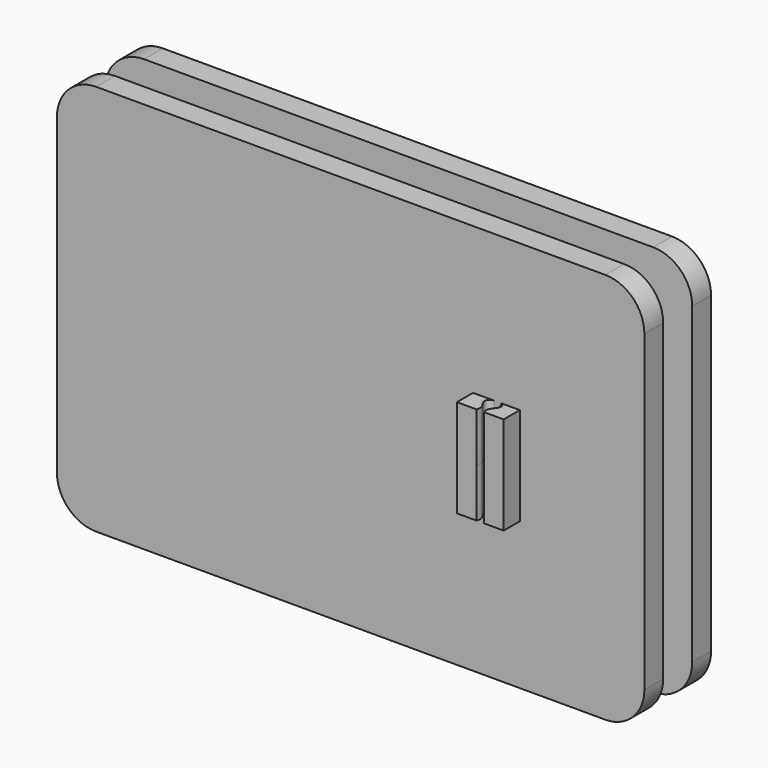
from build123d import *

# Parameters (mm, degrees)
F0_W     = 76.2
F0_H     = 50.8
F1_DEPTH = 3.048
F2_R     = 3.81
F3_DEPTH = 19.05
F4_W     = 3.048
F4_H     = 50.8
F5_DEPTH = 38.1
F7_DEPTH = 6.35
F8_R     = 5.08
F8_2_R   = 5.08


with BuildPart() as f1:
    # F0 (on Front) → F1 (new body)
    with BuildSketch(Plane.XZ):
        Rectangle(F0_W, F0_H)
    extrude(amount=F1_DEPTH)

    # F6 (on Top) → F7 (join, symmetric)
    with BuildSketch(Plane.XY):
        with BuildLine():
            Line((15.8757737679, -2.8663004731), (15.8757737679, -5.6603004731))
            Line((15.8757737679, -5.6603004731), (18.4157737679, -5.6603004731))
            add(Edge.make_bspline(
                [(18.4157737679, -5.6603004731), (18.5378119349, -5.2307397127), (18.587871301, -4.8250919449), (17.4133170665, -3.481495643), (19.0541167471, -2.7333095545), (20.4624615392, -3.5273871295), (19.2137760288, -4.8082813428), (19.2581992596, -5.2407453768), (19.3957253211, -5.6603004731)],
                knots=[0, 0, 0, 0, 0.1482829935, 0.3256724834, 0.5043079551, 0.6714267649, 0.8517170065, 1, 1, 1, 1], degree=3))
            Line((19.3957253211, -5.6603004731), (21.9357253211, -5.6603004731))
            Line((21.9357253211, -5.6603004731), (21.9357253211, -2.8663004731))
            add(Edge.make_bspline(
                [(15.8757737679, -2.8663004731), (16.3097436066, -2.6514092968), (18.9049454854, -1.1739170041), (21.5033636007, -2.6444883167), (21.9357253211, -2.8663004731)],
                knots=[0, 0, 0, 0, 0.5, 1, 1, 1, 1], degree=3))
        make_face()
    extrude(amount=F7_DEPTH, both=True)

    # F8
    f8_edges = [f1.edges().sort_by_distance(p)[0] for p in [
        (38.1, -1.524, -25.4),
        (-38.1, -1.524, -25.4),
        (38.1, -1.524, 25.4),
        (-38.1, -1.524, 25.4),
    ]]
    fillet(f8_edges, radius=F8_R)


with BuildPart() as f3:
    # F2 (on Top) → F3 (new body, symmetric)
    with BuildSketch(Plane.XY):
        with Locations((-8.2497447729, 2.4268818088)):
            Circle(F2_R)
    extrude(amount=F3_DEPTH, both=True)


with BuildPart() as f5:
    # F4 (on Right) → F5 (new body, symmetric)
    with BuildSketch(Plane.YZ):
        with Locations((6.2352120028, 0)):
            Rectangle(F4_W, F4_H)
    extrude(amount=F5_DEPTH, both=True)

    # F8#2
    f8_2_edges = [f5.edges().sort_by_distance(p)[0] for p in [
        (38.1, 6.235212, -25.4),
        (-38.1, 6.235212, -25.4),
        (38.1, 6.235212, 25.4),
        (-38.1, 6.235212, 25.4),
    ]]
    fillet(f8_2_edges, radius=F8_2_R)


solid = Compound([f1.part, f3.part, f5.part])
